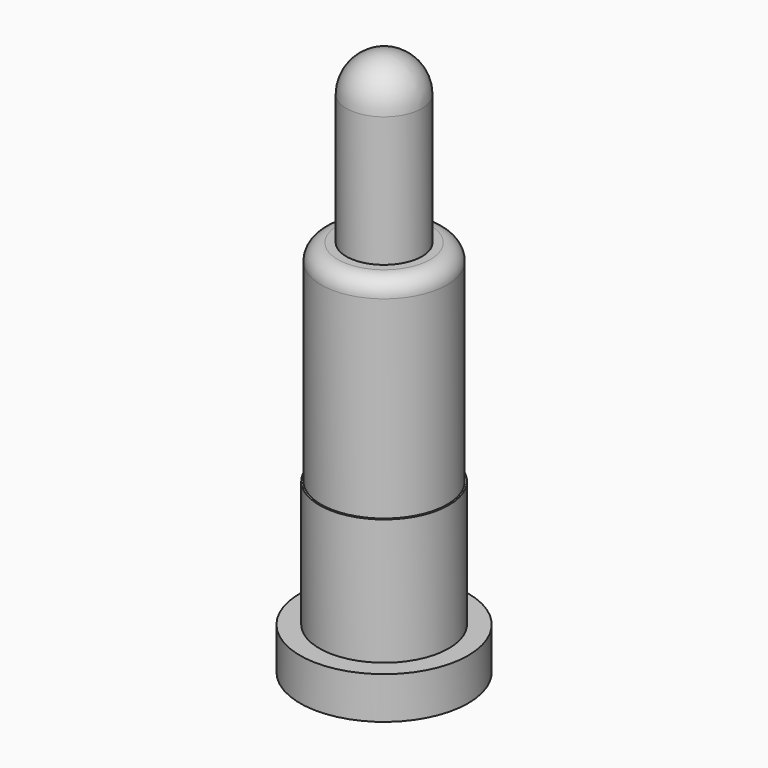
from build123d import *

# Parameters (mm, degrees)
SKETCH_R     = 1
PAD_DEPTH    = 0.5
SKETCH002_R  = 0.77
PAD001_DEPTH = 1.5
SKETCH003_R  = 0.75
PAD002_DEPTH = 2.5
FILLET_R     = 0.2
SKETCH004_R  = 0.45
PAD003_DEPTH = 2
FILLET001_R  = 0.45


with BuildPart() as part:
    # Sketch → Pad (new body)
    with BuildSketch(Plane.XY):
        Circle(SKETCH_R)
    extrude(amount=PAD_DEPTH)

    # Sketch002 (on Face3 of Pad) → Pad001 (join)
    with BuildSketch(Plane.XY.offset(0.5)):
        Circle(SKETCH002_R)
    extrude(amount=PAD001_DEPTH)

    # Sketch003 (on Face5 of Pad001) → Pad002 (join)
    with BuildSketch(Plane.XY.offset(2)):
        Circle(SKETCH003_R)
    extrude(amount=PAD002_DEPTH)

    # Fillet
    fillet_edges = [part.edges().sort_by_distance(p)[0] for p in [
        (-0.75, 0, 4.5),
    ]]
    fillet(fillet_edges, radius=FILLET_R)

    # Sketch004 (on Face4 of Fillet) → Pad003 (join)
    with BuildSketch(Plane.XY.offset(4.5)):
        Circle(SKETCH004_R)
    extrude(amount=PAD003_DEPTH)

    # Fillet001
    fillet001_edges = [part.edges().sort_by_distance(p)[0] for p in [
        (-0.45, 0, 6.5),
    ]]
    fillet(fillet001_edges, radius=FILLET001_R)


solid = part.part
